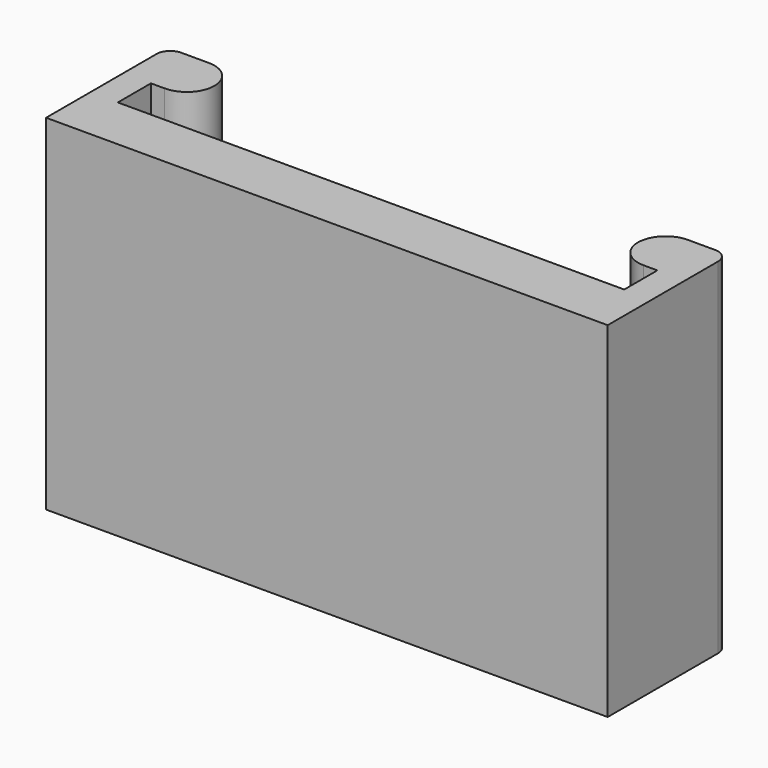
from build123d import *

# Parameters (mm, degrees)
PAD_DEPTH = 50


with BuildPart() as part:
    # Sketch → Pad (new body)
    with BuildSketch(Plane.XY):
        with BuildLine():
            ThreePointArc((-34.7, 14), (-30.7, 18), (-34.7, 22))
            Line((-38.7, 22), (-34.7, 22))
            ThreePointArc((-38.7, 22), (-40.114214, 21.414214), (-40.7, 20))
            Line((-40.7, 0), (-40.7, 20))
            Line((0, 0), (-40.7, 0))
            Line((40.7, 0), (0, 0))
            Line((40.7, 20), (40.7, 0))
            ThreePointArc((40.7, 20), (40.114214, 21.414214), (38.7, 22))
            Line((34.7, 22), (38.7, 22))
            ThreePointArc((34.7, 22), (30.7, 18), (34.7, 14))
            Line((34.7, 14), (36.7, 14))
            Line((36.7, 14), (36.7, 8))
            Line((-36.7, 8), (36.7, 8))
            Line((-36.7, 14), (-36.7, 8))
            Line((-34.7, 14), (-36.7, 14))
        make_face()
    extrude(amount=PAD_DEPTH)


solid = part.part
